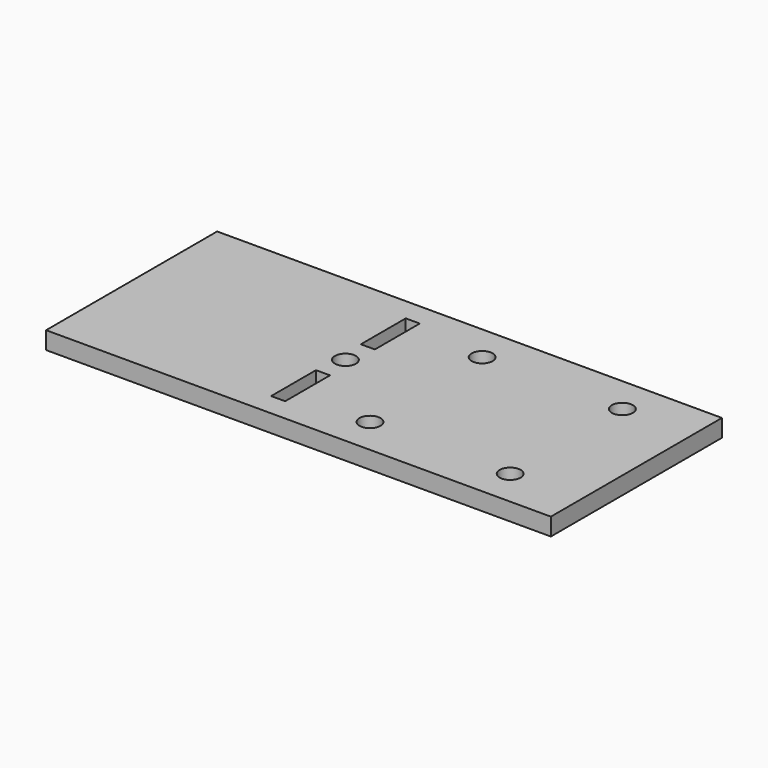
from build123d import *

# Parameters (mm, degrees)
F0_W     = 2
F0_H     = 8
F0_R     = 1.5
F1_DEPTH = 2.5


with BuildPart() as f1:
    # F0 (on Top) → F1 (new body)
    with BuildSketch(Plane.XY):
        Polygon((37.345387, 15.25), (-34.654613, 15.25), (-34.654613, 0), (-34.654613, -15.25), (37.345387, -15.25), align=None)
        with Locations((-4.154613, -8)):
            Rectangle(F0_W, F0_H, mode=Mode.SUBTRACT)
        with Locations((7.345387, -10)):
            Circle(F0_R, mode=Mode.SUBTRACT)
        with Locations((27.345387, -10)):
            Circle(F0_R, mode=Mode.SUBTRACT)
        with BuildLine():
            ThreePointArc((-2.654613, 0), (-4.154613, -1.5), (-5.654613, 0))
            ThreePointArc((-5.654613, 0), (-4.154613, 1.5), (-2.654613, 0))
        make_face(mode=Mode.SUBTRACT)
        with Locations((-4.154613, 8)):
            Rectangle(F0_W, F0_H, mode=Mode.SUBTRACT)
        with Locations((7.345387, 10)):
            Circle(F0_R, mode=Mode.SUBTRACT)
        with Locations((27.345387, 10)):
            Circle(F0_R, mode=Mode.SUBTRACT)
    extrude(amount=-F1_DEPTH)


solid = f1.part
